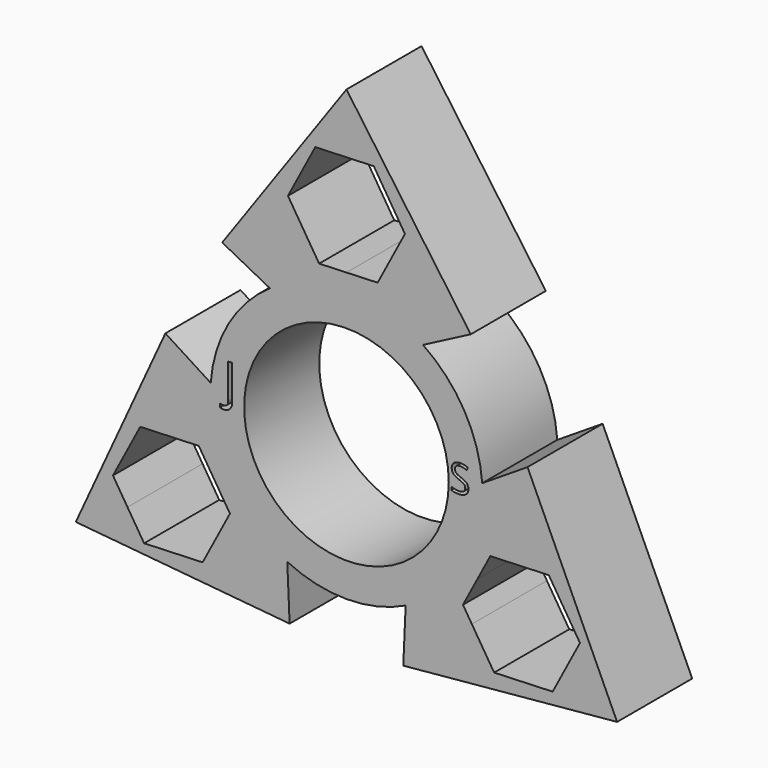
from build123d import *

# Parameters (mm, degrees)
F0_R     = 10.9
F1_DEPTH = 10


with BuildPart() as f1:
    # F0 (on Front) → F1 (new body)
    with BuildSketch(Plane.XZ):
        with BuildLine():
            Line((7.174170576, 11.477349326), (0.5159462476, 14.490817764))
            ThreePointArc((0.5159462476, 14.490817764), (0.2580139744, 14.4977042593), (0, 14.5))
            ThreePointArc((0, 14.5), (-0.2580139744, 14.4977042593), (-0.5159462476, 14.490817764))
            Line((-0.5159462476, 14.490817764), (-7.174170576, 11.477349326))
            Line((-7.174170576, 11.477349326), (-8.1563723499, 11.9884773883))
            ThreePointArc((-8.1563723499, 11.9884773883), (-12.5573683549, 7.25), (-14.4605121459, 1.0693869636))
            Line((-14.4605121459, 1.0693869636), (-13.5267613725, 0.4743393069))
            Line((-13.5267613725, 0.4743393069), (-13.4252365556, -0.5520872158))
            add(Edge.make_bspline(
                [(-13.4252365556, -0.5520872158), (-13.2709471232, -0.5882615523), (-13.1061554641, -0.5882615523)],
                knots=[0.1502622758, 0.1502622758, 0.1502622758, 1, 1, 1], degree=2))
            add(Edge.make_bspline(
                [(-13.1061554641, -0.5882615523), (-12.8556594734, -0.5882615523), (-12.7255631686, -0.4367518805)],
                knots=[0, 0, 0, 1, 1, 1], degree=2))
            add(Edge.make_bspline(
                [(-12.7255631686, -0.4367518805), (-12.5954668638, -0.2852422087), (-12.5954668638, 0)],
                knots=[0, 0, 0, 1, 1, 1], degree=2))
            Line((-12.5954668638, 0), (-12.5954668638, 3.6919876817))
            Line((-12.5954668638, 3.6919876817), (-12.1663914733, 3.6919876817))
            Line((-12.1663914733, 3.6919876817), (-12.1663914733, 0.0355542696))
            add(Edge.make_bspline(
                [(-12.1663914733, 0.0355542696), (-12.1663914733, -0.4444283705), (-12.4088069482, -0.7082572123)],
                knots=[0, 0, 0, 1, 1, 1], degree=2))
            add(Edge.make_bspline(
                [(-12.4088069482, -0.7082572123), (-12.651222423, -0.9720860541), (-13.1061554641, -0.9720860541)],
                knots=[0, 0, 0, 1, 1, 1], degree=2))
            add(Edge.make_bspline(
                [(-13.1061554641, -0.9720860541), (-13.2707647465, -0.9720860541), (-13.386939397, -0.9392754971)],
                knots=[0, 0, 0, 0.6952605952, 0.6952605952, 0.6952605952], degree=2))
            Line((-13.386939397, -0.9392754971), (-12.807389429, -6.7985863246))
            ThreePointArc((-12.807389429, -6.7985863246), (-12.6843871723, -7.0254054733), (-12.5573683549, -7.25))
            ThreePointArc((-12.5573683549, -7.25), (-12.4263731979, -7.472298786), (-12.2914431814, -7.6922314394))
            Line((-12.2914431814, -7.6922314394), (-6.3525907964, -11.9516886329))
            Line((-6.3525907964, -11.9516886329), (-6.304139796, -13.0578643519))
            ThreePointArc((-6.304139796, -13.0578643519), (0, -14.5), (6.304139796, -13.0578643519))
            Line((6.304139796, -13.0578643519), (6.3525907964, -11.9516886329))
            Line((6.3525907964, -11.9516886329), (12.2914431814, -7.6922314394))
            ThreePointArc((12.2914431814, -7.6922314394), (12.4263731979, -7.472298786), (12.5573683549, -7.25))
            ThreePointArc((12.5573683549, -7.25), (12.6843871723, -7.0254054733), (12.807389429, -6.7985863246))
            Line((12.807389429, -6.7985863246), (13.5267613725, 0.4743393069))
            Line((13.5267613725, 0.4743393069), (14.4605121459, 1.0693869636))
            ThreePointArc((14.4605121459, 1.0693869636), (12.5573683549, 7.25), (8.1563723499, 11.9884773883))
            Line((8.1563723499, 11.9884773883), (7.174170576, 11.477349326))
        make_face()
        Circle(F0_R, mode=Mode.SUBTRACT)
        with BuildLine():
            add(Edge.make_bspline(
                [(12.8226079532, 0.5208683426), (12.9934544173, 0.3348355262), (12.9934544173, 0.0387016553)],
                knots=[0, 0, 0, 1, 1, 1], degree=2))
            add(Edge.make_bspline(
                [(12.9934544173, 0.0387016553), (12.9934544173, -0.3428554477), (12.7166198691, -0.55672991)],
                knots=[0, 0, 0, 1, 1, 1], degree=2))
            add(Edge.make_bspline(
                [(12.7166198691, -0.55672991), (12.4397853209, -0.7706043724), (11.9652118098, -0.7706043724)],
                knots=[0, 0, 0, 1, 1, 1], degree=2))
            add(Edge.make_bspline(
                [(11.9652118098, -0.7706043724), (11.4514068883, -0.7706043724), (11.1742559578, -0.6377237893)],
                knots=[0, 0, 0, 1, 1, 1], degree=2))
            Line((11.1742559578, -0.6377237893), (11.1742559578, -0.3137482723))
            add(Edge.make_bspline(
                [(11.1742559578, -0.3137482723), (11.352695598, -0.3884145048), (11.5621407076, -0.4320752678)],
                knots=[0, 0, 0, 1, 1, 1], degree=2))
            add(Edge.make_bspline(
                [(11.5621407076, -0.4320752678), (11.7715858172, -0.4757360308), (11.9772343387, -0.4757360308)],
                knots=[0, 0, 0, 1, 1, 1], degree=2))
            add(Edge.make_bspline(
                [(11.9772343387, -0.4757360308), (12.3132323846, -0.4757360308), (12.4834460839, -0.3482339475)],
                knots=[0, 0, 0, 1, 1, 1], degree=2))
            add(Edge.make_bspline(
                [(12.4834460839, -0.3482339475), (12.6536597833, -0.2207318641), (12.6536597833, 0.0070634212)],
                knots=[0, 0, 0, 1, 1, 1], degree=2))
            add(Edge.make_bspline(
                [(12.6536597833, 0.0070634212), (12.6536597833, 0.1570286507), (12.5932307562, 0.2528925)],
                knots=[0, 0, 0, 1, 1, 1], degree=2))
            add(Edge.make_bspline(
                [(12.5932307562, 0.2528925), (12.5328017291, 0.3487563492), (12.3913788228, 0.4300666108)],
                knots=[0, 0, 0, 1, 1, 1], degree=2))
            add(Edge.make_bspline(
                [(12.3913788228, 0.4300666108), (12.2499559164, 0.5113768724), (11.9614152217, 0.6138847508)],
                knots=[0, 0, 0, 1, 1, 1], degree=2))
            add(Edge.make_bspline(
                [(11.9614152217, 0.6138847508), (11.5583441195, 0.7581550982), (11.3852829791, 0.9558940612)],
                knots=[0, 0, 0, 1, 1, 1], degree=2))
            add(Edge.make_bspline(
                [(11.3852829791, 0.9558940612), (11.2122218387, 1.1536330242), (11.2122218387, 1.471913659)],
                knots=[0, 0, 0, 1, 1, 1], degree=2))
            add(Edge.make_bspline(
                [(11.2122218387, 1.471913659), (11.2122218387, 1.8060134108), (11.4631130349, 2.0037523738)],
                knots=[0, 0, 0, 1, 1, 1], degree=2))
            add(Edge.make_bspline(
                [(11.4631130349, 2.0037523738), (11.7140042312, 2.2014913368), (12.1278323329, 2.2014913368)],
                knots=[0, 0, 0, 1, 1, 1], degree=2))
            add(Edge.make_bspline(
                [(12.1278323329, 2.2014913368), (12.558745081, 2.2014913368), (12.9206864789, 2.0433001664)],
                knots=[0, 0, 0, 1, 1, 1], degree=2))
            Line((12.9206864789, 2.0433001664), (12.8156475417, 1.7509628835))
            add(Edge.make_bspline(
                [(12.8156475417, 1.7509628835), (12.457502732, 1.9009281131), (12.119606392, 1.9009281131)],
                knots=[0, 0, 0, 1, 1, 1], degree=2))
            add(Edge.make_bspline(
                [(12.119606392, 1.9009281131), (11.8525796964, 1.9009281131), (11.7022980846, 1.7863977057)],
                knots=[0, 0, 0, 1, 1, 1], degree=2))
            add(Edge.make_bspline(
                [(11.7022980846, 1.7863977057), (11.5520164727, 1.6718672983), (11.5520164727, 1.4681170709)],
                knots=[0, 0, 0, 1, 1, 1], degree=2))
            add(Edge.make_bspline(
                [(11.5520164727, 1.4681170709), (11.5520164727, 1.3181518414), (11.6073833823, 1.2219716098)],
                knots=[0, 0, 0, 1, 1, 1], degree=2))
            add(Edge.make_bspline(
                [(11.6073833823, 1.2219716098), (11.662750292, 1.1257913782), (11.7943653457, 1.045746646)],
                knots=[0, 0, 0, 1, 1, 1], degree=2))
            add(Edge.make_bspline(
                [(11.7943653457, 1.045746646), (11.9259803995, 0.9657019137), (12.1968036832, 0.8688889175)],
                knots=[0, 0, 0, 1, 1, 1], degree=2))
            add(Edge.make_bspline(
                [(12.1968036832, 0.8688889175), (12.6517614892, 0.706901159), (12.8226079532, 0.5208683426)],
                knots=[0, 0, 0, 1, 1, 1], degree=2))
        make_face(mode=Mode.SUBTRACT)
        with BuildLine():
            ThreePointArc((0, 14.5), (0.2580139744, 14.4977042593), (0.5159462476, 14.490817764))
            Line((0.5159462476, 14.490817764), (7.174170576, 11.477349326))
            Line((7.174170576, 11.477349326), (8.1563723499, 11.9884773883))
            Line((8.1563723499, 11.9884773883), (13.2344113663, 14.6310385317))
            Line((13.2344113663, 14.6310385317), (0, 33.292029053))
            Line((0, 33.292029053), (0, 26.9311823049))
            Line((0, 26.9311823049), (2.9092891492, 27.0423173629))
            Line((2.9092891492, 27.0423173629), (6.2308384028, 21.7652622603))
            Line((6.2308384028, 21.7652622603), (3.3215492536, 16.2501886755))
            Line((3.3215492536, 16.2501886755), (0, 16.1233052513))
            Line((0, 16.1233052513), (0, 14.5))
        make_face()
        with BuildLine():
            ThreePointArc((-0.5159462476, 14.490817764), (-0.2580139744, 14.4977042593), (0, 14.5))
            Line((0, 14.5), (0, 16.1233052513))
            Line((0, 16.1233052513), (-2.9092891492, 16.0121701933))
            Line((-2.9092891492, 16.0121701933), (-6.2308384028, 21.2892252959))
            Line((-6.2308384028, 21.2892252959), (-3.3215492536, 26.8042988807))
            Line((-3.3215492536, 26.8042988807), (0, 26.9311823049))
            Line((0, 26.9311823049), (0, 33.292029053))
            Line((0, 33.292029053), (-13.2344113663, 14.6310385317))
            Line((-13.2344113663, 14.6310385317), (-8.1563723499, 11.9884773883))
            Line((-8.1563723499, 11.9884773883), (-7.174170576, 11.477349326))
            Line((-7.174170576, 11.477349326), (-0.5159462476, 14.490817764))
        make_face()
        with BuildLine():
            Line((19.2880567353, 4.1458171815), (14.4605121459, 1.0693869636))
            Line((14.4605121459, 1.0693869636), (13.5267613725, 0.4743393069))
            Line((13.5267613725, 0.4743393069), (12.807389429, -6.7985863246))
            ThreePointArc((12.807389429, -6.7985863246), (12.6843871723, -7.0254054733), (12.5573683549, -7.25))
            Line((12.5573683549, -7.25), (13.9631919406, -8.0616526257))
            Line((13.9631919406, -8.0616526257), (15.3215907317, -5.4865667864))
            Line((15.3215907317, -5.4865667864), (21.5524291345, -5.2485483042))
            Line((21.5524291345, -5.2485483042), (24.8739783881, -10.5256034068))
            Line((24.8739783881, -10.5256034068), (23.32308803, -13.4655911524))
            Line((23.32308803, -13.4655911524), (28.8317429034, -16.6460145265))
            Line((28.8317429034, -16.6460145265), (19.2880567353, 4.1458171815))
        make_face()
        with BuildLine():
            Line((-13.5267613725, 0.4743393069), (-14.4605121459, 1.0693869636))
            Line((-14.4605121459, 1.0693869636), (-19.2880567353, 4.1458171815))
            Line((-19.2880567353, 4.1458171815), (-28.8317429034, -16.6460145265))
            Line((-28.8317429034, -16.6460145265), (-23.32308803, -13.4655911524))
            Line((-23.32308803, -13.4655911524), (-24.8739783881, -11.0016403713))
            Line((-24.8739783881, -11.0016403713), (-21.9646892389, -5.4865667864))
            Line((-21.9646892389, -5.4865667864), (-15.7338508361, -5.2485483042))
            Line((-15.7338508361, -5.2485483042), (-13.9631919406, -8.0616526257))
            Line((-13.9631919406, -8.0616526257), (-12.5573683549, -7.25))
            ThreePointArc((-12.5573683549, -7.25), (-12.6843871723, -7.0254054733), (-12.807389429, -6.7985863246))
            Line((-12.807389429, -6.7985863246), (-13.386939397, -0.9392754971))
            add(Edge.make_bspline(
                [(-13.386939397, -0.9392754971), (-13.4378598636, -0.9248943144), (-13.4794752953, -0.9042097211)],
                knots=[0.6952605952, 0.6952605952, 0.6952605952, 1, 1, 1], degree=2))
            Line((-13.4794752953, -0.9042097211), (-13.4794752953, -0.5381623541))
            add(Edge.make_bspline(
                [(-13.4794752953, -0.5381623541), (-13.4525201287, -0.5456903737), (-13.4252365556, -0.5520872158)],
                knots=[0, 0, 0, 0.1502622758, 0.1502622758, 0.1502622758], degree=2))
            Line((-13.4252365556, -0.5520872158), (-13.5267613725, 0.4743393069))
        make_face()
        with BuildLine():
            Line((6.053645369, -18.7768557132), (28.8317429034, -16.6460145265))
            Line((28.8317429034, -16.6460145265), (23.32308803, -13.4655911524))
            Line((23.32308803, -13.4655911524), (21.9646892389, -16.0406769917))
            Line((21.9646892389, -16.0406769917), (15.7338508361, -16.2786954739))
            Line((15.7338508361, -16.2786954739), (13.3561301342, -12.5011319924))
            Line((13.3561301342, -12.5011319924), (12.4123015825, -11.0016403713))
            Line((12.4123015825, -11.0016403713), (13.9631919406, -8.0616526257))
            Line((13.9631919406, -8.0616526257), (12.5573683549, -7.25))
            ThreePointArc((12.5573683549, -7.25), (12.4263731979, -7.472298786), (12.2914431814, -7.6922314394))
            Line((12.2914431814, -7.6922314394), (6.3525907964, -11.9516886329))
            Line((6.3525907964, -11.9516886329), (6.304139796, -13.0578643519))
            Line((6.304139796, -13.0578643519), (6.053645369, -18.7768557132))
        make_face()
        with BuildLine():
            Line((-23.32308803, -13.4655911524), (-28.8317429034, -16.6460145265))
            Line((-28.8317429034, -16.6460145265), (-6.053645369, -18.7768557132))
            Line((-6.053645369, -18.7768557132), (-6.304139796, -13.0578643519))
            Line((-6.304139796, -13.0578643519), (-6.3525907964, -11.9516886329))
            Line((-6.3525907964, -11.9516886329), (-12.2914431814, -7.6922314394))
            ThreePointArc((-12.2914431814, -7.6922314394), (-12.4263731979, -7.472298786), (-12.5573683549, -7.25))
            Line((-12.5573683549, -7.25), (-13.9631919406, -8.0616526257))
            Line((-13.9631919406, -8.0616526257), (-12.4123015825, -10.5256034068))
            Line((-12.4123015825, -10.5256034068), (-15.3215907317, -16.0406769917))
            Line((-15.3215907317, -16.0406769917), (-21.5524291345, -16.2786954739))
            Line((-21.5524291345, -16.2786954739), (-23.32308803, -13.4655911524))
        make_face()
    extrude(amount=F1_DEPTH)


solid = f1.part
